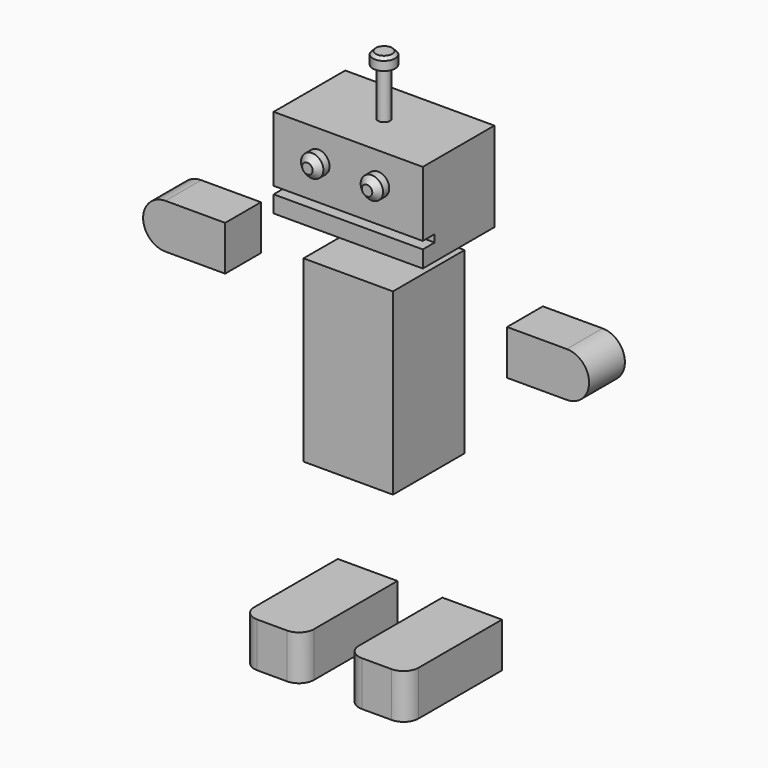
from build123d import *

# Parameters (mm, degrees)
F0_W           = 38.1
F0_H           = 38.099996
F1_DEPTH       = 76.2
F2_W           = 63.5
F2_H           = 38.1
F3_DEPTH       = 19.05
F3_DEPTH_BACK  = 19.05
F4_W           = 6.35
F4_H           = 3.175
F5_DEPTH       = 63.501
F6_R           = 4.7625
F7_DEPTH       = 5.842
F8_SIZE        = 2.54
F9_R           = 2.54
F10_DEPTH      = 20.32
F11_R          = 4.7625
F11_R_2        = 2.54
F12_DEPTH      = 5.08
F13_SIZE       = 1.27
F16_DEPTH      = 19.05
F18_DEPTH      = 9.525
F18_DEPTH_BACK = 9.525


with BuildPart() as f1:
    # F0 (on Top) → F1 (new body)
    with BuildSketch(Plane.XY):
        Rectangle(F0_W, F0_H)
    extrude(amount=F1_DEPTH)


with BuildPart() as f3:
    # F2 (on Front) → F3 (new body, two sides)
    with BuildSketch(Plane.XZ) as f3_sk:
        with Locations((0, 107.939761)):
            Rectangle(F2_W, F2_H)
    extrude(amount=F3_DEPTH)
    extrude(f3_sk.sketch, amount=-F3_DEPTH_BACK)

    # F4 (on face) → F5 (cut, through all)
    with BuildSketch(Plane.YZ.offset(31.75)):
        with Locations((-15.875, 97.648171)):
            Rectangle(F4_W, F4_H)
    extrude(amount=-F5_DEPTH, mode=Mode.SUBTRACT)

    # F9 (on face) → F10 (join)
    with BuildSketch(Plane.XY.offset(126.989761)):
        Circle(F9_R)
    extrude(amount=F10_DEPTH)

    # F11 (on face) → F12 (join)
    with BuildSketch(Plane.XY.offset(147.309761)):
        Circle(F11_R)
        Circle(F11_R_2, mode=Mode.SUBTRACT)
        Circle(F11_R_2)
    extrude(amount=F12_DEPTH)

    # F13
    f13_edges = [f3.edges().sort_by_distance(p)[0] for p in [
        (-4.7625, 0, 152.389761),
    ]]
    chamfer(f13_edges, length=F13_SIZE)


with BuildPart() as f7:
    # F6 (on face) → F7 (new body)
    with BuildSketch(Plane.XZ.offset(19.05)):
        with Locations((-12.7, 114.289761)):
            Circle(F6_R)
        with Locations((12.7, 114.289761)):
            Circle(F6_R)
    extrude(amount=F7_DEPTH)

    # F8
    f8_edges = [f7.edges().sort_by_distance(p)[0] for p in [
        (-17.4625, -24.892, 114.289761),
        (7.9375, -24.892, 114.289761),
    ]]
    chamfer(f8_edges, length=F8_SIZE)


with BuildPart() as f16:
    # F15 (on offset) → F16 (new body)
    with BuildSketch(Plane.XY.offset(-76.2)):
        with BuildLine():
            ThreePointArc((-34.959849, -25.34791), (-33.099977, -29.838038), (-28.609849, -31.69791))
            Line((-28.609849, -31.69791), (-15.909849, -31.69791))
            ThreePointArc((-15.909849, -31.69791), (-11.419721, -29.838038), (-9.559849, -25.34791))
            Line((-9.559849, -25.34791), (-9.559849, 19.10209))
            Line((-9.559849, 19.10209), (-34.959849, 19.10209))
            Line((-34.959849, 19.10209), (-34.959849, -25.34791))
        make_face()
        with BuildLine():
            Line((34.959849, -25.34791), (34.959849, 19.10209))
            Line((34.959849, 19.10209), (9.559849, 19.10209))
            Line((9.559849, 19.10209), (9.559849, -25.34791))
            ThreePointArc((9.559849, -25.34791), (11.419721, -29.838038), (15.909849, -31.69791))
            Line((15.909849, -31.69791), (28.609849, -31.69791))
            ThreePointArc((28.609849, -31.69791), (33.099977, -29.838038), (34.959849, -25.34791))
        make_face()
    extrude(amount=F16_DEPTH)


with BuildPart() as f18:
    # F17 (on Front) → F18 (new body, two sides)
    with BuildSketch(Plane.XZ) as f18_sk:
        with BuildLine():
            Line((-60.014771, 72.302995), (-85.414771, 72.302995))
            ThreePointArc((-85.414771, 72.302995), (-94.939771, 62.777995), (-85.414771, 53.252995))
            Line((-85.414771, 53.252995), (-60.014771, 53.252995))
            Line((-60.014771, 53.252995), (-60.014771, 72.302995))
        make_face()
        with BuildLine():
            ThreePointArc((85.414771, 53.252995), (94.939771, 62.777995), (85.414771, 72.302995))
            Line((85.414771, 72.302995), (60.014771, 72.302995))
            Line((60.014771, 72.302995), (60.014771, 53.252995))
            Line((60.014771, 53.252995), (85.414771, 53.252995))
        make_face()
    extrude(amount=F18_DEPTH)
    extrude(f18_sk.sketch, amount=-F18_DEPTH_BACK)


solid = Compound([f1.part, f3.part, f7.part, f16.part, f18.part])
